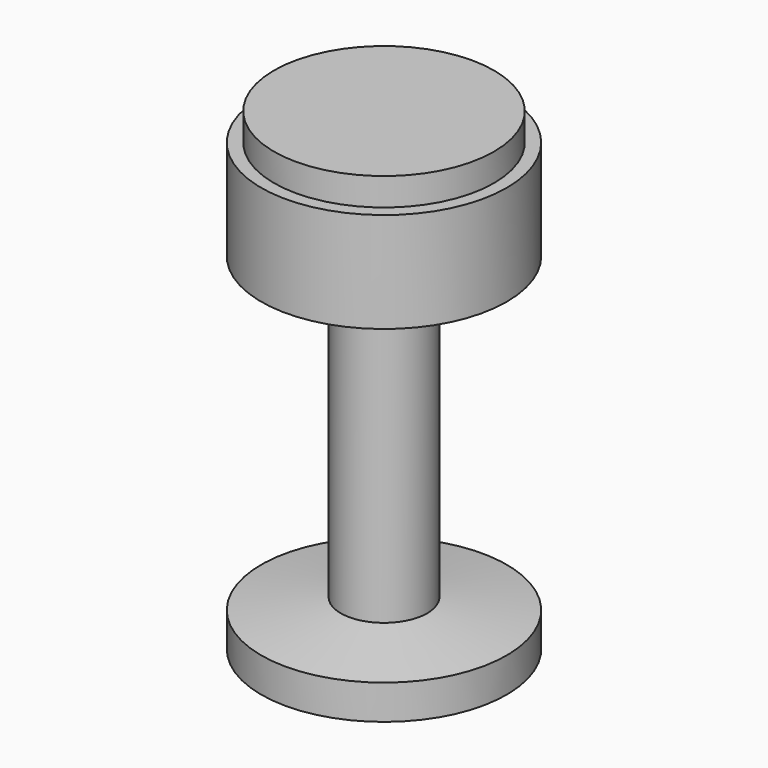
from build123d import *

# Parameters (mm, degrees)
F2_R     = 12.5
F3_DEPTH = 100
F4_R     = 35.5
F5_DEPTH = 29
F6_R     = 31.8
F7_DEPTH = 8


with BuildPart() as f1:
    # F0 (on Right) → F1 (revolve)
    with BuildSketch(Plane.YZ):
        Polygon((0, 0), (0, 15), (-35.5, 10), (-35.5, 0), align=None)
    revolve(axis=Axis((0, 0, 2.476192), (0, 0, 1)))

    # F2 (on Top) → F3 (join)
    with BuildSketch(Plane.XY):
        Circle(F2_R)
    extrude(amount=F3_DEPTH)

    # F4 (on face) → F5 (join)
    with BuildSketch(Plane.XY.offset(100)):
        Circle(F4_R)
    extrude(amount=F5_DEPTH)

    # F6 (on face) → F7 (join)
    with BuildSketch(Plane.XY.offset(129)):
        Circle(F6_R)
    extrude(amount=F7_DEPTH)


solid = f1.part
